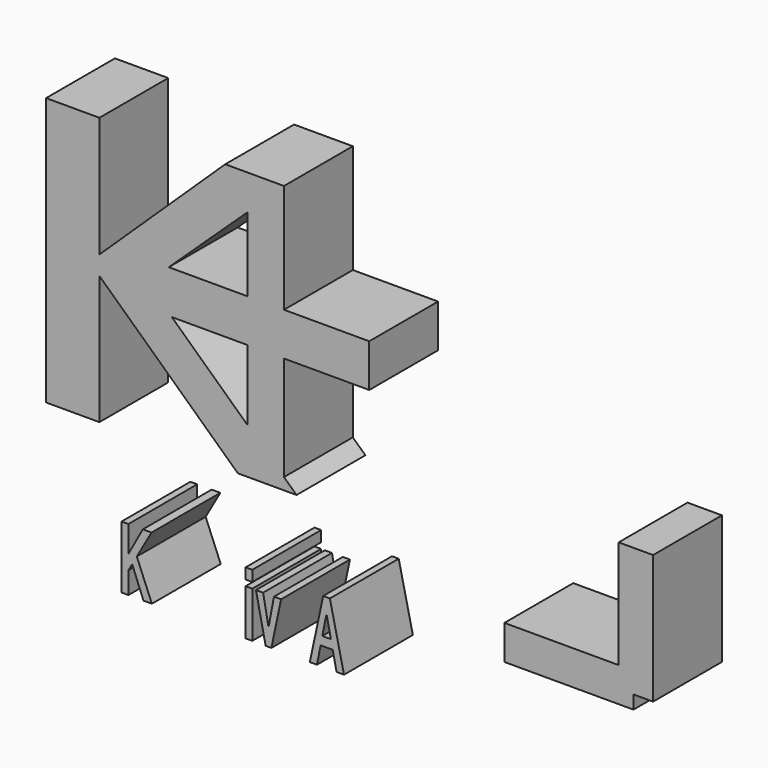
from build123d import *

# Parameters (mm, degrees)
F1_DEPTH = 25.4
F0_W     = 4.3742356
F0_H     = 6.2060074


with BuildPart() as f1:
    # F0 (on Front) → F1 (new body)
    with BuildSketch(Plane.XZ):
        Polygon((-64.6065256, 18.2781956), (-64.6065256, 53.806979), (-80.3425368, 53.806979), (-80.3425368, -25.2860556), (-64.6065256, -25.2860556), (-64.6065256, 12.7188722), (-23.738078, -25.2860556), (-6.4171576, -25.2860556), (-10.1278944, -21.8323414), (-10.1278944, 8.972677), (15.0378414, 8.972677), (15.0378414, 21.6399364), (-10.1278944, 21.6399364), (-10.1278944, 52.5436592), (-10.1278944, 53.806979), (-10.3793798, 53.806979), (-27.4739354, 53.806979), align=None)
        Polygon((-20.875879, 8.972677), (-20.875879, -11.829161), (-43.2263042, 8.972677), align=None, mode=Mode.SUBTRACT)
        Polygon((-44.133897, 21.6399364), (-20.875879, 43.4906166), (-20.875879, 21.6399364), align=None, mode=Mode.SUBTRACT)
    extrude(amount=F1_DEPTH)


with BuildPart() as f1b:
    # F0 (on Front) → F1, piece 2 (new body)
    with BuildSketch(Plane.XZ):
        Polygon((-19.8351394, -48.9648754), (-21.4543132, -48.9648754), (-21.4543132, -52.1416026), (-19.482689, -52.1416026), (-19.482689, -48.9648754), align=None)
    extrude(amount=F1_DEPTH)


with BuildPart() as f1c:
    # F0 (on Front) → F1, piece 3 (new body)
    with BuildSketch(Plane.XZ):
        Polygon((-19.8351394, -53.8676088), (-21.4543132, -53.8676088), (-21.4543132, -67.4305992), (-19.482689, -67.4305992), (-19.482689, -53.8676088), align=None)
    extrude(amount=F1_DEPTH)


with BuildPart() as f1d:
    # F0 (on Front) → F1, piece 4 (new body)
    with BuildSketch(Plane.XZ):
        Polygon((-13.0827526, -53.8676088), (-13.1364736, -54.1549082), (-14.6847052, -62.3614704), (-16.2811714, -53.8676088), (-18.3864758, -53.8676088), (-15.541498, -67.4305992), (-13.829284, -67.4305992), (-10.992612, -53.8676088), align=None)
    extrude(amount=F1_DEPTH)


with BuildPart() as f1e:
    # F0 (on Front) → F1, piece 5 (new body)
    with BuildSketch(Plane.XZ):
        Polygon((3.4182304, -48.9648754), (3.136773, -48.9648754), (1.435227, -48.9648754), (-2.4911304, -67.4305992), (-0.3958336, -67.4305992), (0.6976364, -62.0279938), (4.2512488, -62.0279938), (5.3898546, -67.4305992), (7.5933554, -67.4305992), align=None)
        Polygon((2.4253444, -53.3184608), (3.7200332, -59.4455504), (1.192276, -59.4455504), align=None, mode=Mode.SUBTRACT)
    extrude(amount=F1_DEPTH)


with BuildPart() as f1f:
    # F0 (on Front) → F1, piece 6 (new body)
    with BuildSketch(Plane.XZ):
        Polygon((-53.569997, -56.6081672), (-49.2278162, -48.9648754), (-51.795807, -48.9648754), (-56.0511706, -56.731154), (-56.0511706, -48.9648754), (-58.0601836, -48.9648754), (-58.0601836, -67.4305992), (-56.0511706, -67.4305992), (-56.0511706, -60.9992938), (-54.9254934, -59.019059), (-51.602005, -67.4305992), (-49.1193074, -67.4305992), align=None)
    extrude(amount=F1_DEPTH)


with BuildPart() as f1g:
    # F0 (on Front) → F1, piece 7 (new body)
    with BuildSketch(Plane.XZ):
        Polygon((88.6516134, -38.5603242), (93.025849, -38.5603242), (93.025849, -44.7663316), (98.8115372, -44.7663316), (98.8115372, -6.6663316), (88.6516134, -6.6663316), align=None)
        with Locations((90.8387312, -41.6633279)):
            Rectangle(F0_W, F0_H)
        Polygon((93.025849, -48.7202734), (93.025849, -44.7663316), (88.6516134, -44.7663316), (88.6516134, -38.5603242), (54.925849, -38.5603242), (54.925849, -48.7202734), align=None)
    extrude(amount=F1_DEPTH)


solid = Compound([f1.part, f1b.part, f1c.part, f1d.part, f1e.part, f1f.part, f1g.part])
